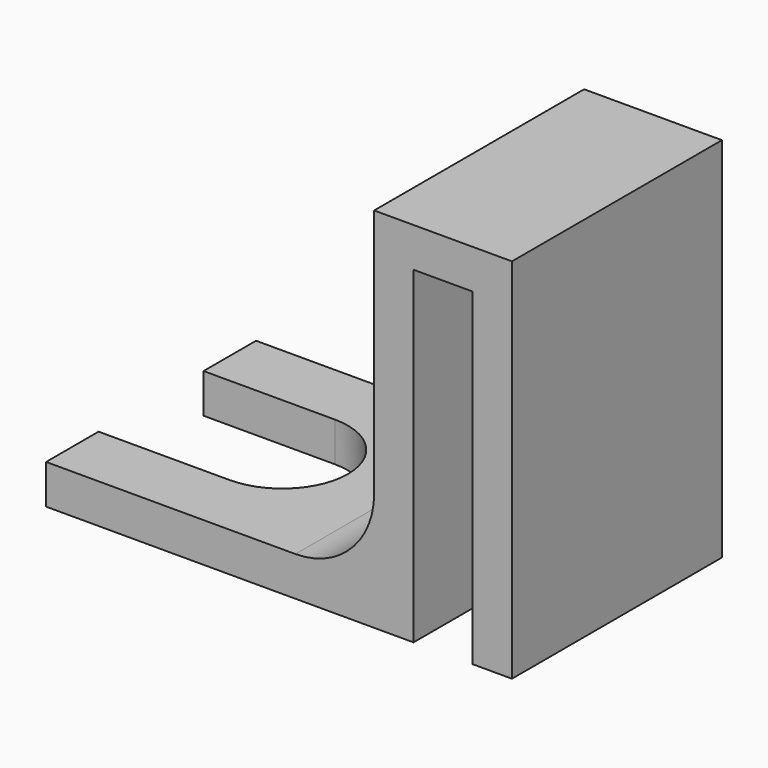
from build123d import *

# Parameters (mm, degrees)
F0_W          = 3
F0_H          = 3
F0_W_2        = 4.5
F0_W_3        = 25
F1_DEPTH      = 10
F1_DEPTH_BACK = 10
F4_DEPTH      = 10
F4_DEPTH_BACK = 10
F5_R          = 6


with BuildPart() as f1:
    # F0 (on Front) → F1 (new body, two sides)
    with BuildSketch(Plane.XZ) as f1_sk:
        with Locations((1.5, 1.5)):
            Rectangle(F0_W, F0_H)
        Polygon((3, 0), (0, 0), (0, -22), (0, -25), (3, -25), align=None)
        with Locations((5.25, 1.5)):
            Rectangle(F0_W_2, F0_H)
        with Locations((-12.5, -23.5)):
            Rectangle(F0_W_3, F0_H)
        Polygon((7.5, 3), (7.5, 0), (7.5, -25), (10.5, -25), (10.5, 3), align=None)
    extrude(amount=F1_DEPTH)
    extrude(f1_sk.sketch, amount=-F1_DEPTH_BACK)

    # F3 (on offset) → F4 (cut, two sides)
    with BuildSketch(Plane.XY.offset(-20)) as f4_sk:
        with BuildLine():
            ThreePointArc((-15, -5), (-11.464466, -3.535534), (-10, 0))
            Line((-10, 0), (-25, 0))
            Line((-25, 0), (-25, -5))
            Line((-25, -5), (-15, -5))
        make_face()
        with BuildLine():
            Line((-25, 0), (-10, 0))
            ThreePointArc((-10, 0), (-11.464466, 3.535534), (-15, 5))
            Line((-15, 5), (-25, 5))
            Line((-25, 5), (-25, 0))
        make_face()
    extrude(amount=F4_DEPTH, mode=Mode.SUBTRACT)
    extrude(f4_sk.sketch, amount=-F4_DEPTH_BACK, mode=Mode.SUBTRACT)

    # F5
    f5_edges = [f1.edges().sort_by_distance(p)[0] for p in [
        (0, 0, -22),
    ]]
    fillet(f5_edges, radius=F5_R)


solid = f1.part
